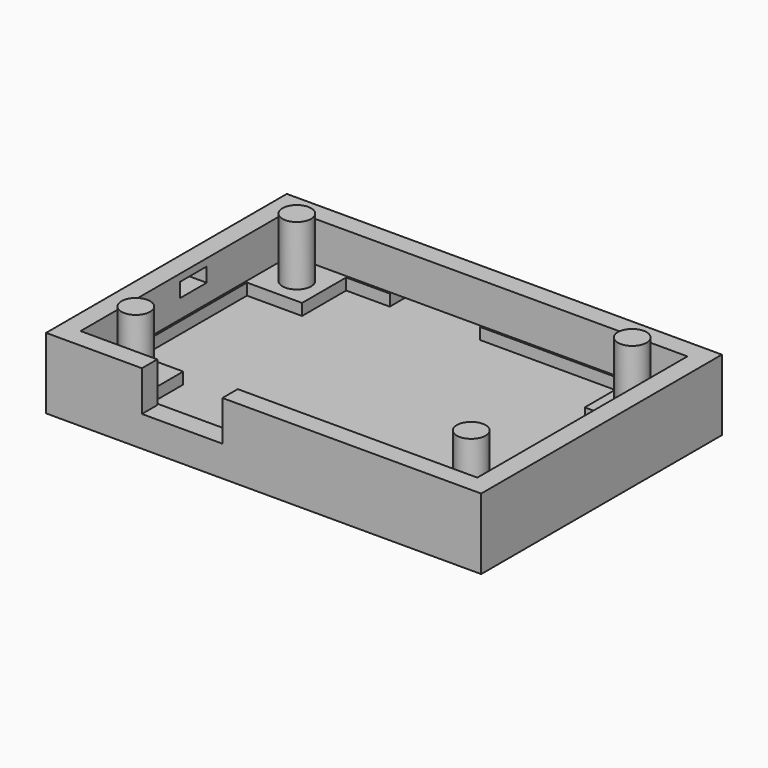
from build123d import *

# Parameters (mm, degrees)
F2_W      = 45.4
F2_H      = 31.4
F2_W_2    = 5.75
F2_H_2    = 5.75
F2_R      = 1.75
F2_W_3    = 29.5
F2_H_3    = 0.2
F2_W_4    = 0.2
F2_H_4    = 15.5
F3_DEPTH  = 1.2
F4_DEPTH  = 2
F5_W      = 45.4
F5_H      = 31.4
F5_W_2    = 41.4
F5_H_2    = 27.4
F6_DEPTH  = 4.2
F5_R      = 1.5
F7_DEPTH  = 6.2
F8_W      = 3.5
F8_H      = 1.5
F9_DEPTH  = 2
F10_W     = 8.4
F10_H     = 4.2
F11_DEPTH = 2
F12_W     = 9.4
F12_H     = 1.2
F13_DEPTH = 2.2


with BuildPart() as f3:
    # F2 (on Top) → F3 (new body)
    with BuildSketch(Plane.XY):
        with Locations((4.5342570215, -2.7560327426)):
            Rectangle(F2_W, F2_H)
        Polygon((-16.1657429785, 10.9439672574), (-10.2157429785, 10.9439672574), (19.2842570215, 10.9439672574), (25.2342570215, 10.9439672574), (25.2342570215, 4.9939672574), (25.2342570215, -10.5060327426), (25.2342570215, -16.4560327426), (19.2842570215, -16.4560327426), (-10.2157429785, -16.4560327426), (-16.1657429785, -16.4560327426), (-16.1657429785, -10.5060327426), (-16.1657429785, 4.9939672574), align=None, mode=Mode.SUBTRACT)
        with Locations((22.1592570215, 7.8689672574)):
            Rectangle(F2_W_2, F2_H_2)
        with Locations((22.0342570215, 7.7439672574)):
            Circle(F2_R, mode=Mode.SUBTRACT)
        with Locations((-13.0907429785, 7.8689672574)):
            Rectangle(F2_W_2, F2_H_2)
        with Locations((-12.9657429785, 7.7439672574)):
            Circle(F2_R, mode=Mode.SUBTRACT)
        with Locations((22.1592570215, -13.3810327426)):
            Rectangle(F2_W_2, F2_H_2)
        with Locations((22.0342570215, -13.2560327426)):
            Circle(F2_R, mode=Mode.SUBTRACT)
        with Locations((-13.0907429785, -13.3810327426)):
            Rectangle(F2_W_2, F2_H_2)
        with Locations((-12.9657429785, -13.2560327426)):
            Circle(F2_R, mode=Mode.SUBTRACT)
        with Locations((-12.9657429785, 7.7439672574)):
            Circle(F2_R)
        with Locations((22.0342570215, 7.7439672574)):
            Circle(F2_R)
        with Locations((22.0342570215, -13.2560327426)):
            Circle(F2_R)
        with Locations((-12.9657429785, -13.2560327426)):
            Circle(F2_R)
        with Locations((4.5342570215, -16.3560327426)):
            Rectangle(F2_W_3, F2_H_3)
        with Locations((4.5342570215, 10.8439672574)):
            Rectangle(F2_W_3, F2_H_3)
        with Locations((-16.0657429785, -2.7560327426)):
            Rectangle(F2_W_4, F2_H_4)
        with Locations((25.1342570215, -2.7560327426)):
            Rectangle(F2_W_4, F2_H_4)
        Polygon((-15.9657429785, -16.2560327426), (-15.9657429785, -10.5060327426), (-16.1657429785, -10.5060327426), (-16.1657429785, -16.4560327426), (-10.2157429785, -16.4560327426), (-10.2157429785, -16.2560327426), align=None)
        Polygon((-15.9657429785, 4.9939672574), (-15.9657429785, 10.7439672574), (-10.2157429785, 10.7439672574), (-10.2157429785, 10.9439672574), (-16.1657429785, 10.9439672574), (-16.1657429785, 4.9939672574), align=None)
        Polygon((25.2342570215, -10.5060327426), (25.0342570215, -10.5060327426), (25.0342570215, -16.2560327426), (19.2842570215, -16.2560327426), (19.2842570215, -16.4560327426), (25.2342570215, -16.4560327426), align=None)
        Polygon((19.2842570215, 10.9439672574), (19.2842570215, 10.7439672574), (25.0342570215, 10.7439672574), (25.0342570215, 4.9939672574), (25.2342570215, 4.9939672574), (25.2342570215, 10.9439672574), align=None)
    extrude(amount=F3_DEPTH)

    # F2 (on Top) → F4 (join)
    with BuildSketch(Plane.XY):
        with Locations((4.5342570215, -2.7560327426)):
            Rectangle(F2_W, F2_H)
        Polygon((-16.1657429785, 10.9439672574), (-10.2157429785, 10.9439672574), (19.2842570215, 10.9439672574), (25.2342570215, 10.9439672574), (25.2342570215, 4.9939672574), (25.2342570215, -10.5060327426), (25.2342570215, -16.4560327426), (19.2842570215, -16.4560327426), (-10.2157429785, -16.4560327426), (-16.1657429785, -16.4560327426), (-16.1657429785, -10.5060327426), (-16.1657429785, 4.9939672574), align=None, mode=Mode.SUBTRACT)
        Polygon((19.2842570215, 10.7439672574), (-10.2157429785, 10.7439672574), (-10.2157429785, 4.9939672574), (-15.9657429785, 4.9939672574), (-15.9657429785, -10.5060327426), (-10.2157429785, -10.5060327426), (-10.2157429785, -16.2560327426), (19.2842570215, -16.2560327426), (19.2842570215, -10.5060327426), (25.0342570215, -10.5060327426), (25.0342570215, 4.9939672574), (19.2842570215, 4.9939672574), align=None)
        with Locations((-13.0907429785, 7.8689672574)):
            Rectangle(F2_W_2, F2_H_2)
        with Locations((-12.9657429785, 7.7439672574)):
            Circle(F2_R, mode=Mode.SUBTRACT)
        with Locations((-13.0907429785, -13.3810327426)):
            Rectangle(F2_W_2, F2_H_2)
        with Locations((-12.9657429785, -13.2560327426)):
            Circle(F2_R, mode=Mode.SUBTRACT)
        with Locations((22.1592570215, -13.3810327426)):
            Rectangle(F2_W_2, F2_H_2)
        with Locations((22.0342570215, -13.2560327426)):
            Circle(F2_R, mode=Mode.SUBTRACT)
        with Locations((22.1592570215, 7.8689672574)):
            Rectangle(F2_W_2, F2_H_2)
        with Locations((22.0342570215, 7.7439672574)):
            Circle(F2_R, mode=Mode.SUBTRACT)
        with Locations((-12.9657429785, 7.7439672574)):
            Circle(F2_R)
        with Locations((-12.9657429785, -13.2560327426)):
            Circle(F2_R)
        with Locations((22.0342570215, -13.2560327426)):
            Circle(F2_R)
        with Locations((22.0342570215, 7.7439672574)):
            Circle(F2_R)
        with Locations((4.5342570215, 10.8439672574)):
            Rectangle(F2_W_3, F2_H_3)
        with Locations((4.5342570215, -16.3560327426)):
            Rectangle(F2_W_3, F2_H_3)
        with Locations((-16.0657429785, -2.7560327426)):
            Rectangle(F2_W_4, F2_H_4)
        with Locations((25.1342570215, -2.7560327426)):
            Rectangle(F2_W_4, F2_H_4)
        Polygon((-15.9657429785, 4.9939672574), (-15.9657429785, 10.7439672574), (-10.2157429785, 10.7439672574), (-10.2157429785, 10.9439672574), (-16.1657429785, 10.9439672574), (-16.1657429785, 4.9939672574), align=None)
        Polygon((-15.9657429785, -16.2560327426), (-15.9657429785, -10.5060327426), (-16.1657429785, -10.5060327426), (-16.1657429785, -16.4560327426), (-10.2157429785, -16.4560327426), (-10.2157429785, -16.2560327426), align=None)
        Polygon((25.2342570215, -10.5060327426), (25.0342570215, -10.5060327426), (25.0342570215, -16.2560327426), (19.2842570215, -16.2560327426), (19.2842570215, -16.4560327426), (25.2342570215, -16.4560327426), align=None)
        Polygon((19.2842570215, 10.9439672574), (19.2842570215, 10.7439672574), (25.0342570215, 10.7439672574), (25.0342570215, 4.9939672574), (25.2342570215, 4.9939672574), (25.2342570215, 10.9439672574), align=None)
    extrude(amount=-F4_DEPTH)

    # F5 (on face) → F6 (join)
    with BuildSketch(Plane.XY.offset(1.2)):
        with Locations((4.5342570215, -2.7560327426)):
            Rectangle(F5_W, F5_H)
        with Locations((4.5342570215, -2.7560327426)):
            Rectangle(F5_W_2, F5_H_2, mode=Mode.SUBTRACT)
    extrude(amount=F6_DEPTH)

    # F5 (on face) → F7 (join)
    with BuildSketch(Plane.XY.offset(1.2)):
        with Locations((-12.9657429785, 7.7439672574)):
            Circle(F5_R)
        with Locations((22.0342570215, 7.7439672574)):
            Circle(F5_R)
        with Locations((22.0342570215, -13.2560327426)):
            Circle(F5_R)
        with Locations((-12.9657429785, -13.2560327426)):
            Circle(F5_R)
    extrude(amount=F7_DEPTH)

    # F8 (on face) → F9 (cut, through all)
    with BuildSketch(Plane(origin=(-18.1657429785, 0, 0), x_dir=(0, -1, 0), z_dir=(-1, 0, 0))):
        with Locations((1.7560327426, 3.9)):
            Rectangle(F8_W, F8_H)
    extrude(amount=-F9_DEPTH, mode=Mode.SUBTRACT)

    # F10 (on face) → F11 (cut, through all)
    with BuildSketch(Plane.XZ.offset(18.4560327426)):
        with Locations((-3.9657429785, 3.3)):
            Rectangle(F10_W, F10_H)
    extrude(amount=-F11_DEPTH, mode=Mode.SUBTRACT)

    # F12 (on face) → F13 (cut, through all)
    with BuildSketch(Plane(origin=(0, 12.9439672574, 0), x_dir=(-1, 0, 0), z_dir=(0, 1, 0))):
        with Locations((0.9657429785, 0.6)):
            Rectangle(F12_W, F12_H)
    extrude(amount=-F13_DEPTH, mode=Mode.SUBTRACT)


solid = f3.part
